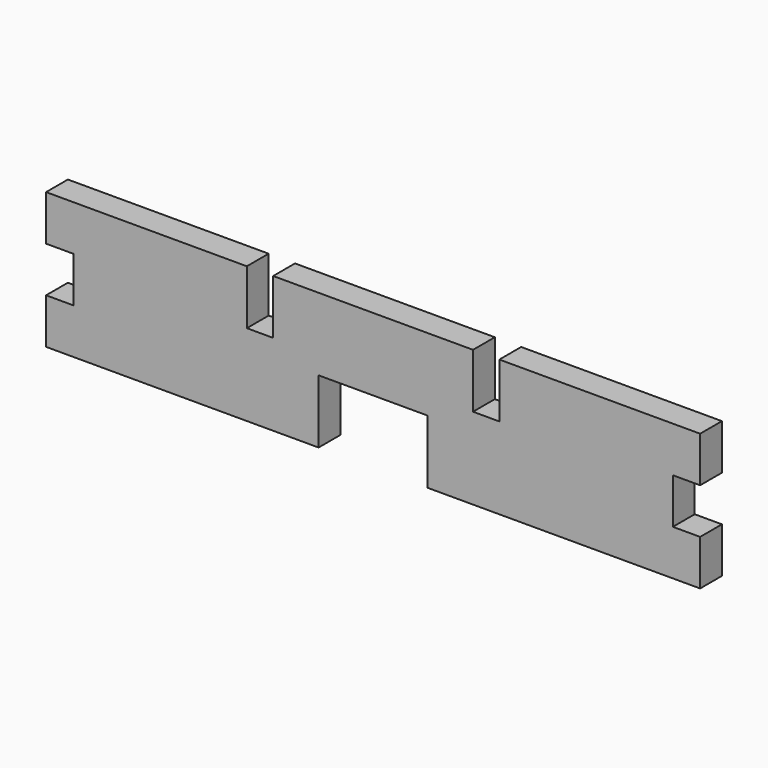
from build123d import *

# Parameters (mm, degrees)
F1_DEPTH = 3


with BuildPart() as f1:
    # F0 (on Front) → F1 (new body)
    with BuildSketch(Plane.XZ):
        Polygon((-13.9, 22.281678), (-36, 22.281678), (-36, 17.281678), (-33, 17.281678), (-33, 12.281678), (-36, 12.281678), (-36, 7.281678), (-6, 7.281678), (-6, 14.281678), (6, 14.281678), (6, 7.281678), (36, 7.281678), (36, 12.281678), (33, 12.281678), (33, 17.281678), (36, 17.281678), (36, 22.281678), (13.9, 22.281678), (13.9, 16.281678), (11, 16.281678), (11, 22.281678), (-11, 22.281678), (-11, 16.281678), (-13.9, 16.281678), align=None)
    extrude(amount=F1_DEPTH)


solid = f1.part
